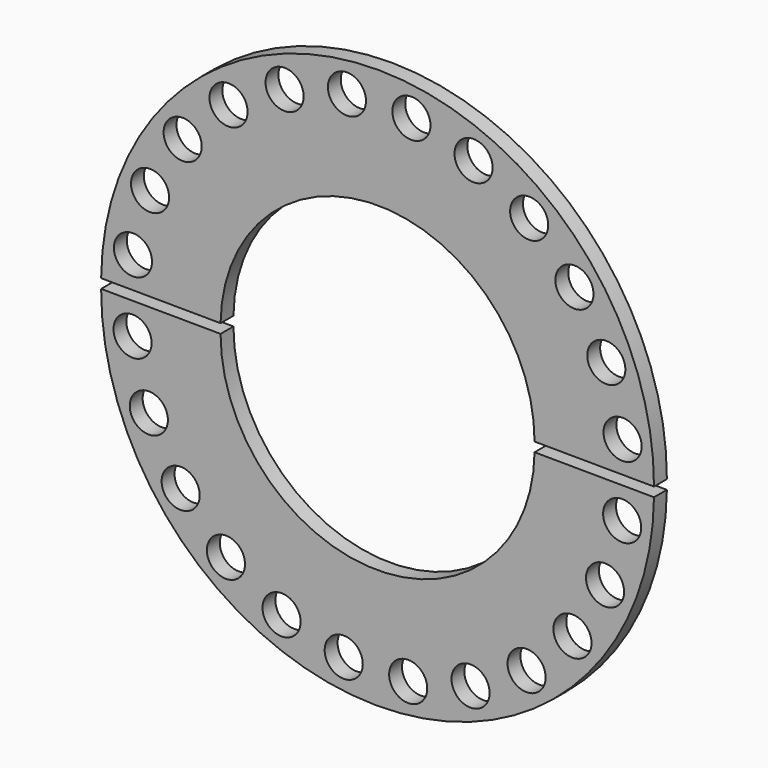
from build123d import *

# Parameters (mm, degrees)
F0_R     = 71
F1_DEPTH = 60


with BuildPart() as f1:
    # F0 (on Front) → F1 (new body)
    with BuildSketch(Plane.XZ):
        with BuildLine():
            Line((456.461541, 13.63139), (901.457706, 10.686684))
            ThreePointArc((901.457706, 10.686684), (1490.275833, 587.802974), (2071.40474, 2.944706))
            Line((2071.40474, 2.944706), (2516.400905, 0))
            ThreePointArc((2516.400905, 0), (1493.2205, 1032.793231), (456.461541, 13.63139))
        make_face()
        with Locations((575.090076, 128.933019)):
            Circle(F0_R, mode=Mode.SUBTRACT)
        with Locations((638.783913, 360.501273)):
            Circle(F0_R, mode=Mode.SUBTRACT)
        with Locations((760.24171, 567.693852)):
            Circle(F0_R, mode=Mode.SUBTRACT)
        with Locations((2219.979896, 558.034218)):
            Circle(F0_R, mode=Mode.SUBTRACT)
        with Locations((931.186318, 736.390924)):
            Circle(F0_R, mode=Mode.SUBTRACT)
        with Locations((1139.968146, 855.096063)):
            Circle(F0_R, mode=Mode.SUBTRACT)
        with Locations((1372.359055, 915.719709)):
            Circle(F0_R, mode=Mode.SUBTRACT)
        with Locations((1844.090245, 850.436623)):
            Circle(F0_R, mode=Mode.SUBTRACT)
        with Locations((2051.282824, 728.978826)):
            Circle(F0_R, mode=Mode.SUBTRACT)
        with Locations((1612.52199, 914.130461)):
            Circle(F0_R, mode=Mode.SUBTRACT)
        with Locations((2399.30868, 116.861482)):
            Circle(F0_R, mode=Mode.SUBTRACT)
        with Locations((2338.685034, 349.252391)):
            Circle(F0_R, mode=Mode.SUBTRACT)
        with BuildLine():
            ThreePointArc((2071.40474, -32.05606), (1482.586613, -609.172351), (901.457706, -24.314083))
            Line((901.457706, -24.314083), (456.461541, -21.369377))
            ThreePointArc((456.461541, -21.369377), (1479.641946, -1054.162608), (2516.400905, -35.000766))
            Line((2516.400905, -35.000766), (2071.40474, -32.05606))
        make_face()
        with Locations((752.88255, -579.403595)):
            Circle(F0_R, mode=Mode.SUBTRACT)
        with Locations((634.177412, -370.621768)):
            Circle(F0_R, mode=Mode.SUBTRACT)
        with Locations((573.553766, -138.230858)):
            Circle(F0_R, mode=Mode.SUBTRACT)
        with Locations((1128.772202, -871.806)):
            Circle(F0_R, mode=Mode.SUBTRACT)
        with Locations((921.579622, -750.348203)):
            Circle(F0_R, mode=Mode.SUBTRACT)
        with Locations((1360.340456, -935.499837)):
            Circle(F0_R, mode=Mode.SUBTRACT)
        with Locations((1600.503391, -937.089085)):
            Circle(F0_R, mode=Mode.SUBTRACT)
        with Locations((1832.894301, -876.465439)):
            Circle(F0_R, mode=Mode.SUBTRACT)
        with Locations((2041.676128, -757.760301)):
            Circle(F0_R, mode=Mode.SUBTRACT)
        with Locations((2212.620736, -589.063229)):
            Circle(F0_R, mode=Mode.SUBTRACT)
        with Locations((2334.078533, -381.87065)):
            Circle(F0_R, mode=Mode.SUBTRACT)
        with Locations((2397.77237, -150.302395)):
            Circle(F0_R, mode=Mode.SUBTRACT)
    extrude(amount=F1_DEPTH)


solid = f1.part
